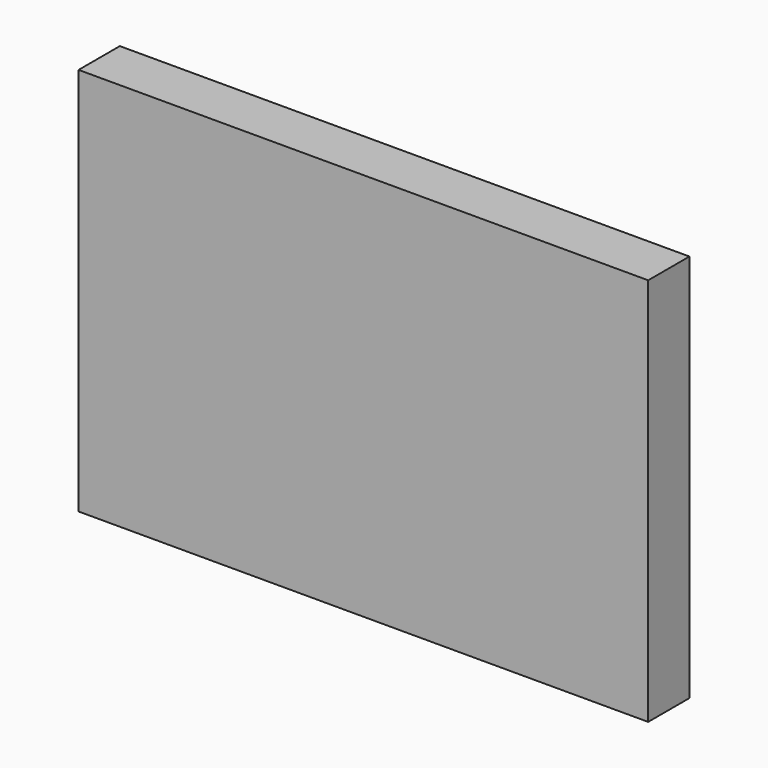
from build123d import *

# Parameters (mm, degrees)
F0_W     = 315
F0_H     = 215
F0_W_2   = 312.6
F0_H_2   = 212.6
F1_DEPTH = 28.5
F2_W     = 312.6
F2_H     = 212.6
F3_DEPTH = 1.5


with BuildPart() as f1:
    # F0 (on Front) → F1 (new body)
    with BuildSketch(Plane.XZ):
        with Locations((-7.5, -1.3)):
            Rectangle(F0_W, F0_H)
        with Locations((-7.5, -1.3)):
            Rectangle(F0_W_2, F0_H_2, mode=Mode.SUBTRACT)
    extrude(amount=F1_DEPTH)

    # F2 (on face) → F3 (join)
    with BuildSketch(Plane.XZ.offset(28.5)):
        with Locations((-7.5, -1.3)):
            Rectangle(F2_W, F2_H)
    extrude(amount=-F3_DEPTH)


solid = f1.part
